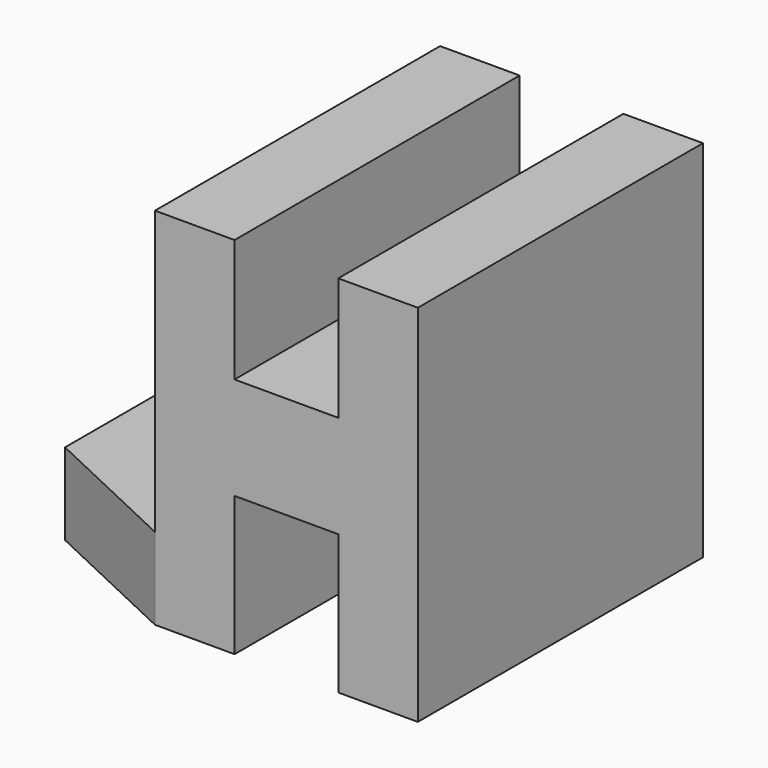
from build123d import *

# Parameters (mm, degrees)
F1_W     = 13.4705491364
F1_H     = 26.6246274114
F2_DEPTH = 92.5794709474
F3_W     = 92.5794709474
F3_H     = 21.2339237332
F4_DEPTH = 37.4759007245
F6_DEPTH = 116.4518650621


with BuildPart() as f2:
    # F1 (on face) → F2 (new body)
    with BuildSketch(Plane.XZ):
        Polygon((13.4705491364, 31.8936929107), (13.4705491364, 0), (13.4705491364, -26.6246274114), (13.4705491364, -62.8302171826), (34.1447852552, -62.8302171826), (34.1447852552, 31.8936929107), align=None)
        with Locations((6.7352745682, -13.3123137057)):
            Rectangle(F1_W, F1_H)
        with Locations((-6.7352745682, -13.3123137057)):
            Rectangle(F1_W, F1_H)
        Polygon((-13.4705491364, 0), (-13.4705491364, 31.8936929107), (-34.1447852552, 31.8936929107), (-34.1447852552, -62.8302171826), (-13.4705491364, -62.8302171826), (-13.4705491364, -26.6246274114), align=None)
    extrude(amount=-F2_DEPTH)

    # F3 (on face) → F4 (join)
    with BuildSketch(Plane(origin=(-34.1447852552, 0, 0), x_dir=(0, -1, 0), z_dir=(-1, 0, 0))):
        with Locations((-46.2897354737, -52.213255316)):
            Rectangle(F3_W, F3_H)
    extrude(amount=F4_DEPTH)

    # F5 (on face) → F6 (cut)
    with BuildSketch(Plane.XY.offset(-41.5962934494)):
        Polygon((-71.6206859797, 0), (-34.1447852552, 0), (-71.6206859797, 17.6472961903), align=None)
    extrude(amount=-F6_DEPTH, mode=Mode.SUBTRACT)


solid = f2.part
